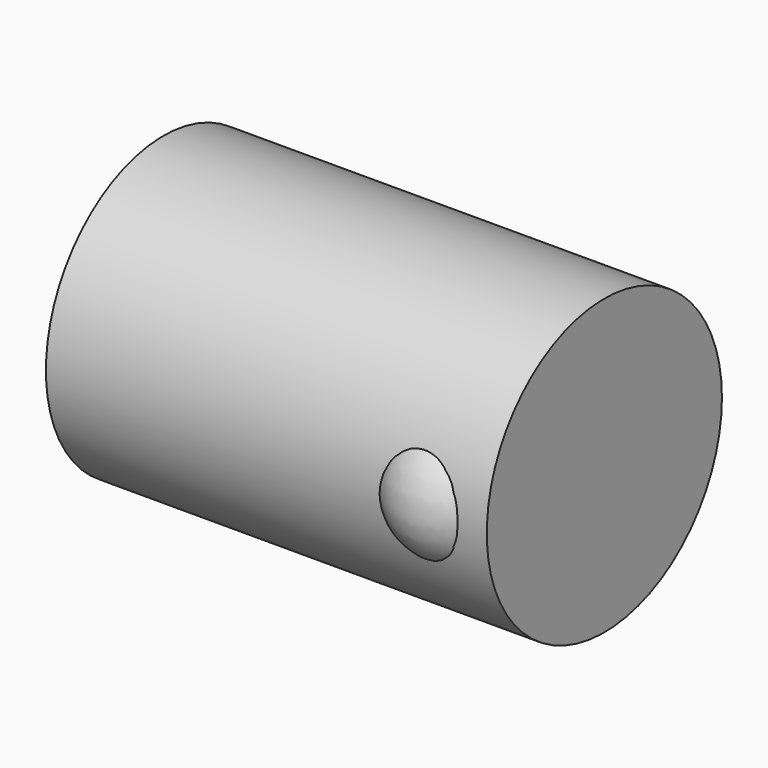
from build123d import *

# Parameters (mm, degrees)
F0_R     = 25.4
F1_DEPTH = 76.2


with BuildPart() as f1:
    # F0 (on Right) → F1 (new body)
    with BuildSketch(Plane.YZ):
        Circle(F0_R)
    extrude(amount=F1_DEPTH)


with BuildPart() as f3:
    # F2 (on Top) → F3 (revolve)
    with BuildSketch(Plane.XY):
        with BuildLine():
            ThreePointArc((57.683736, -25.4), (64.407505, -27.651399), (71.131274, -25.4))
            Line((71.131274, -25.4), (57.683736, -25.4))
        make_face()
    revolve(axis=Axis((64.407505, -16.485484, 0), (1, 0, 0)))


solid = Compound([f1.part, f3.part])
